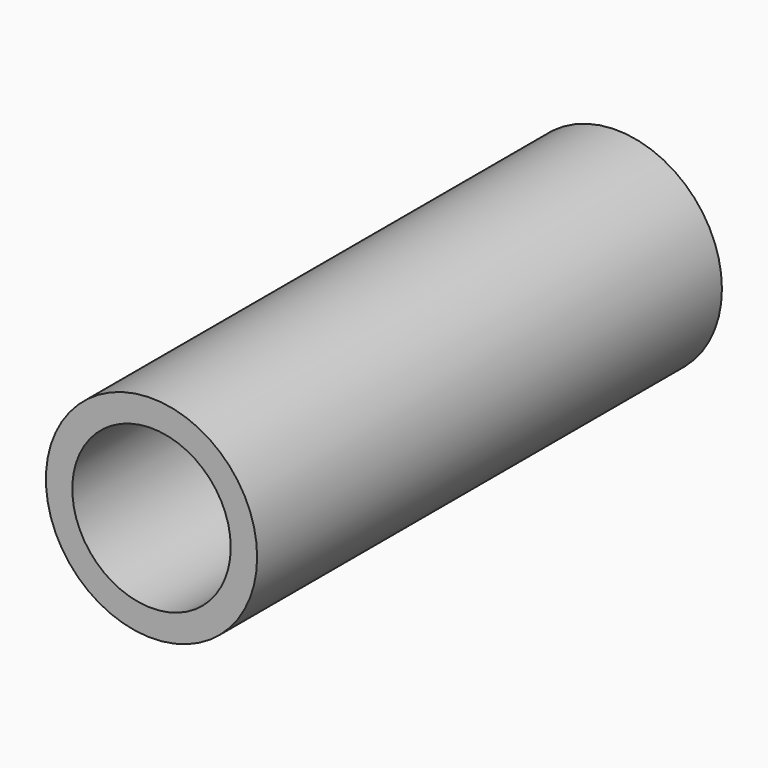
from build123d import *

# Parameters (mm, degrees)
CYLINDER_R             = 3
CYLINDER_DEPTH         = 22
CYLINDER_ROLL_ANGLE    = 90
CYLINDER013_R          = 1.15
CYLINDER013_DEPTH      = 6
CYLINDER013_ROLL_ANGLE = 90
CYLINDER010_R          = 4
CYLINDER010_DEPTH      = 22
CYLINDER010_ROLL_ANGLE = 90


with BuildPart() as cylinder:
    # Cylinder → Cylinder (new body)
    with BuildSketch(Plane.XY):
        Circle(CYLINDER_R)
    extrude(amount=CYLINDER_DEPTH)


with BuildPart() as cylinder_1:
    # Cylinder roll: moved
    add(cylinder.part.rotate(Axis((0, 0, 0), (1, 0, 0)), CYLINDER_ROLL_ANGLE))


with BuildPart() as cylinder_2:
    # Cylinder placement: moved
    add(cylinder_1.part.moved(Location((0, -1, 75))))


with BuildPart() as fusion:
    # Cylinder013 → Cylinder013 (new body)
    with BuildSketch(Plane.XY):
        Circle(CYLINDER013_R)
    extrude(amount=CYLINDER013_DEPTH)


with BuildPart() as fusion_1:
    # Cylinder013 roll: moved
    add(fusion.part.rotate(Axis((0, 0, 0), (1, 0, 0)), CYLINDER013_ROLL_ANGLE))


with BuildPart() as fusion_2:
    # Cylinder013 placement: moved
    add(fusion_1.part.moved(Location((0, 5, 75))))

    # Fusion: union Cylinder
    add(cylinder_2.part)


with BuildPart() as cut002:
    # Cylinder010 → Cylinder010 (new body)
    with BuildSketch(Plane.XY):
        Circle(CYLINDER010_R)
    extrude(amount=CYLINDER010_DEPTH)


with BuildPart() as cut002_1:
    # Cylinder010 roll: moved
    add(cut002.part.rotate(Axis((0, 0, 0), (1, 0, 0)), CYLINDER010_ROLL_ANGLE))


with BuildPart() as cut002_2:
    # Cylinder010 placement: moved
    add(cut002_1.part.moved(Location((0, 0, 75))))

    # Cut002: cut Fusion
    add(fusion_2.part, mode=Mode.SUBTRACT)


solid = cut002_2.part
